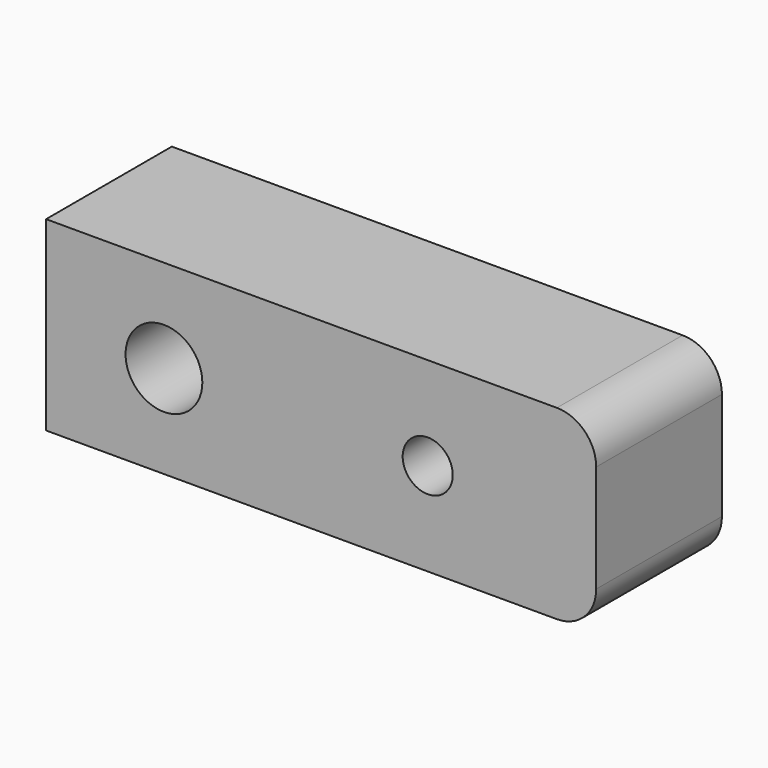
from build123d import *

# Parameters (mm, degrees)
F0_R     = 6.2011167501
F0_R_2   = 4.0462607589
F1_DEPTH = 12.7


with BuildPart() as f1:
    # F0 (on Front) → F1 (new body, symmetric)
    with BuildSketch(Plane.XZ):
        with BuildLine():
            Line((35.7664418355, 15.0339733809), (-46.7835581645, 15.0339733809))
            Line((-46.7835581645, 15.0339733809), (-46.7835581645, -15.0339733809))
            Line((-46.7835581645, -15.0339733809), (35.7664418355, -15.0339733809))
            ThreePointArc((35.7664418355, -15.0339733809), (40.256569896, -13.1741014415), (42.1164418355, -8.6839733809))
            Line((42.1164418355, -8.6839733809), (42.1164418355, 8.6839733809))
            ThreePointArc((42.1164418355, 8.6839733809), (40.256569896, 13.1741014415), (35.7664418355, 15.0339733809))
        make_face()
        with Locations((-27.7343895286, 0)):
            Circle(F0_R, mode=Mode.SUBTRACT)
        with Locations((14.892292209, 0)):
            Circle(F0_R_2, mode=Mode.SUBTRACT)
    extrude(amount=F1_DEPTH, both=True)


solid = f1.part
